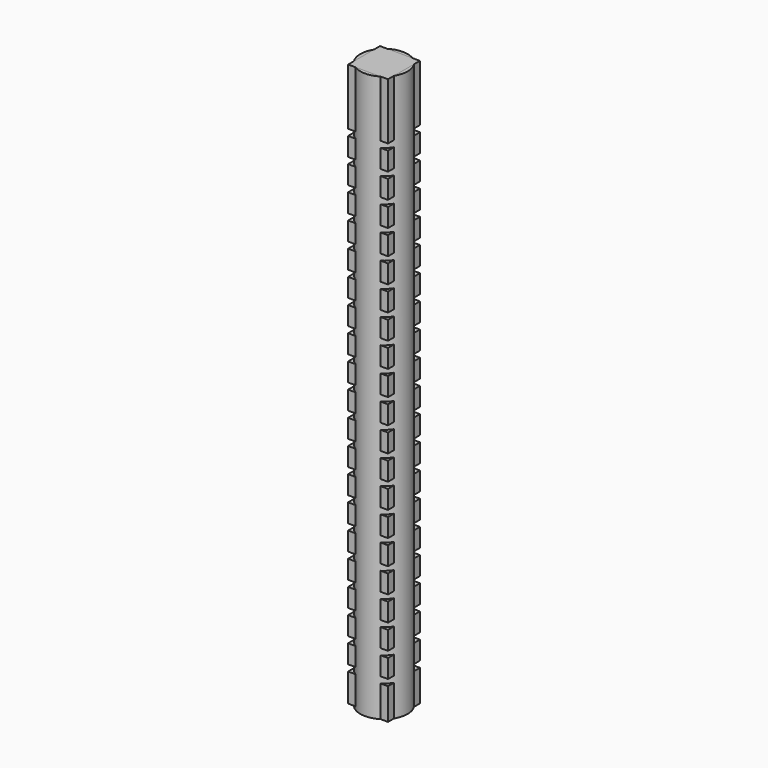
from build123d import *

# Parameters (mm, degrees)
SKETCH002_R         = 7.5
PAD001_DEPTH        = 180
SKETCH001_W         = 12.7
SKETCH001_H         = 12.7
PAD_DEPTH           = 180
SKETCH006_W         = 12
SKETCH006_H         = 12
POCKET_DEPTH        = 1
SKETCH005_W         = 20
SKETCH005_H         = 2
LINEARPATTERN_COUNT = 20
LINEARPATTERN_PITCH = 7.894737


with BuildPart() as pad001:
    # Sketch002 → Pad001 (new body)
    with BuildSketch(Plane.XY):
        Circle(SKETCH002_R)
    extrude(amount=PAD001_DEPTH)


with BuildPart() as linearpattern:
    # Sketch001 → Pad (new body)
    with BuildSketch(Plane.XY):
        Rectangle(SKETCH001_W, SKETCH001_H)
    extrude(amount=PAD_DEPTH)

    # Sketch006 → Pocket (cut)
    with BuildSketch(Plane(origin=(0, 0, 0), x_dir=(1, 0, 0), z_dir=(0, 0, -1))):
        with Locations((-6, 6)):
            Rectangle(SKETCH006_W, SKETCH006_H)
    extrude(amount=-POCKET_DEPTH, mode=Mode.SUBTRACT)

    # Sketch005 → Groove (revolve, cut)
    with BuildSketch(Plane.XZ):
        with Locations((-16, 11)):
            Rectangle(SKETCH005_W, SKETCH005_H)
    groove = revolve(axis=Axis((0, 0, 0), (0, 0, 1)), mode=Mode.SUBTRACT)

    # LinearPattern: Groove ×20
    with Locations(*[(0, 0, i * LINEARPATTERN_PITCH) for i in range(1, LINEARPATTERN_COUNT)]):
        add(groove, mode=Mode.SUBTRACT)


solid = Compound([pad001.part, linearpattern.part])
